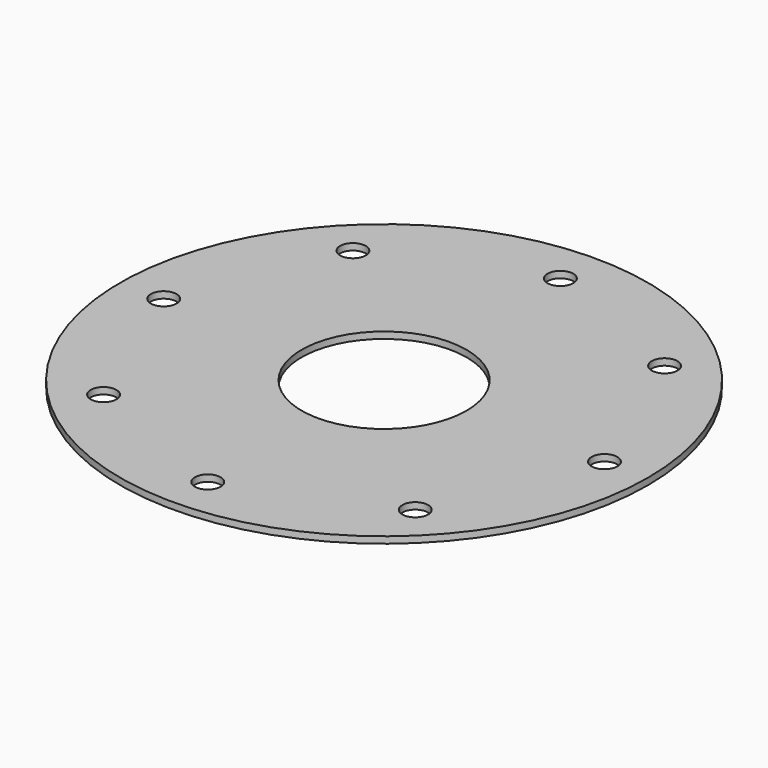
from build123d import *

# Parameters (mm, degrees)
F0_R     = 80
F0_R_2   = 3.9
F0_R_3   = 25
F1_DEPTH = 2


with BuildPart() as f1:
    # F0 (on Top) → F1 (new body)
    with BuildSketch(Plane.XY):
        Circle(F0_R)
        with Locations((-47.234733, -47.234733)):
            Circle(F0_R_2, mode=Mode.SUBTRACT)
        with Locations((0, -66.8)):
            Circle(F0_R_2, mode=Mode.SUBTRACT)
        with Locations((47.234733, -47.234733)):
            Circle(F0_R_2, mode=Mode.SUBTRACT)
        with Locations((-66.8, 0)):
            Circle(F0_R_2, mode=Mode.SUBTRACT)
        with Locations((-47.234733, 47.234733)):
            Circle(F0_R_2, mode=Mode.SUBTRACT)
        Circle(F0_R_3, mode=Mode.SUBTRACT)
        with Locations((66.8, 0)):
            Circle(F0_R_2, mode=Mode.SUBTRACT)
        with Locations((0, 66.8)):
            Circle(F0_R_2, mode=Mode.SUBTRACT)
        with Locations((47.234733, 47.234733)):
            Circle(F0_R_2, mode=Mode.SUBTRACT)
    extrude(amount=F1_DEPTH)


solid = f1.part
